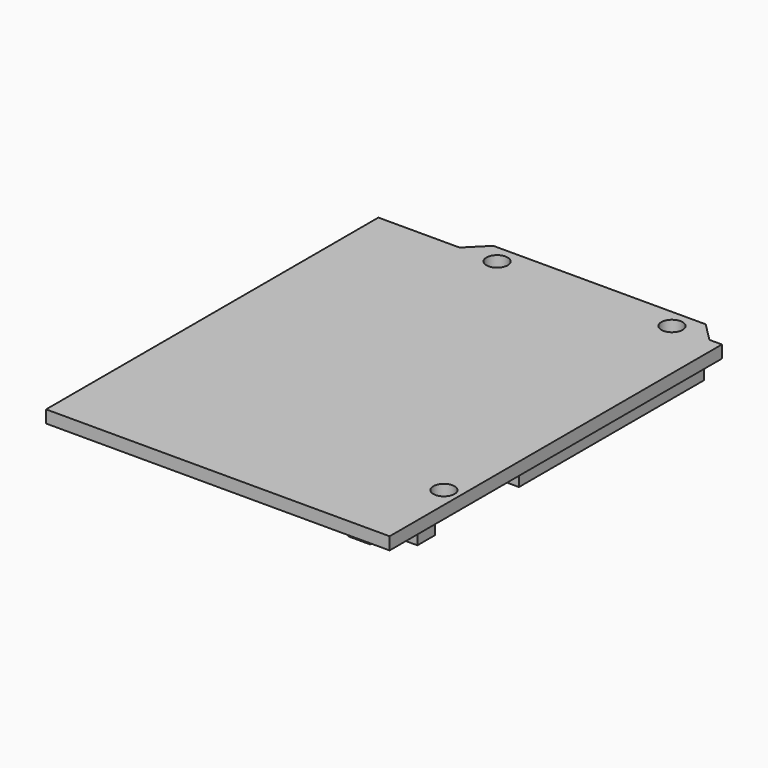
from build123d import *

# Parameters (mm, degrees)
F0_R     = 1.7
F1_DEPTH = 2
F2_W     = 5
F2_H     = 8
F2_W_2   = 3.5
F2_H_2   = 3.5
F2_W_3   = 8
F2_H_3   = 5
F2_W_4   = 10
F2_H_4   = 34.5
F2_W_5   = 2
F2_H_5   = 45.5
F2_H_6   = 37
F3_DEPTH = 3


with BuildPart() as f1:
    # F0 (on Top) → F1 (new body)
    with BuildSketch(Plane.XY):
        Polygon((-27.5, 37), (-27.5, -29.5), (27.5, -29.5), (27.5, 37), (25.5, 37), (22.5, 40), (-11.5, 40), (-14.5, 37), align=None)
        with Locations((25, -15.5)):
            Circle(F0_R, mode=Mode.SUBTRACT)
        with Locations((-8.5, 37)):
            Circle(F0_R, mode=Mode.SUBTRACT)
        with Locations((19.5, 37)):
            Circle(F0_R, mode=Mode.SUBTRACT)
    extrude(amount=F1_DEPTH)


with BuildPart() as f3:
    # F2 (on face) → F3 (new body)
    with BuildSketch(Plane.XY):
        with Locations((-19.69, -11.25)):
            Rectangle(F2_W, F2_H)
        with Locations((19.25, -17.7)):
            Rectangle(F2_W_2, F2_H_2)
        with Locations((24, -20)):
            Rectangle(F2_W_2, F2_H_2)
        with Locations((-0.64, 36)):
            Rectangle(F2_W_3, F2_H_3)
        with Locations((10.81, 17.25)):
            Rectangle(F2_W_4, F2_H_4)
        with Locations((10.81, 17.25)):
            Rectangle(F2_W_4, F2_H_4)
        with Locations((-23.69, 12.75)):
            Rectangle(F2_W_5, F2_H_5)
        with Locations((24.81, 17)):
            Rectangle(F2_W_5, F2_H_6)
        with Locations((-23.69, 12.75)):
            Rectangle(F2_W_5, F2_H_5)
        with Locations((24.81, 17)):
            Rectangle(F2_W_5, F2_H_6)
        with Locations((19.25, -23.5)):
            Rectangle(F2_W_2, F2_H_2)
    extrude(amount=-F3_DEPTH)


solid = Compound([f1.part, f3.part])
